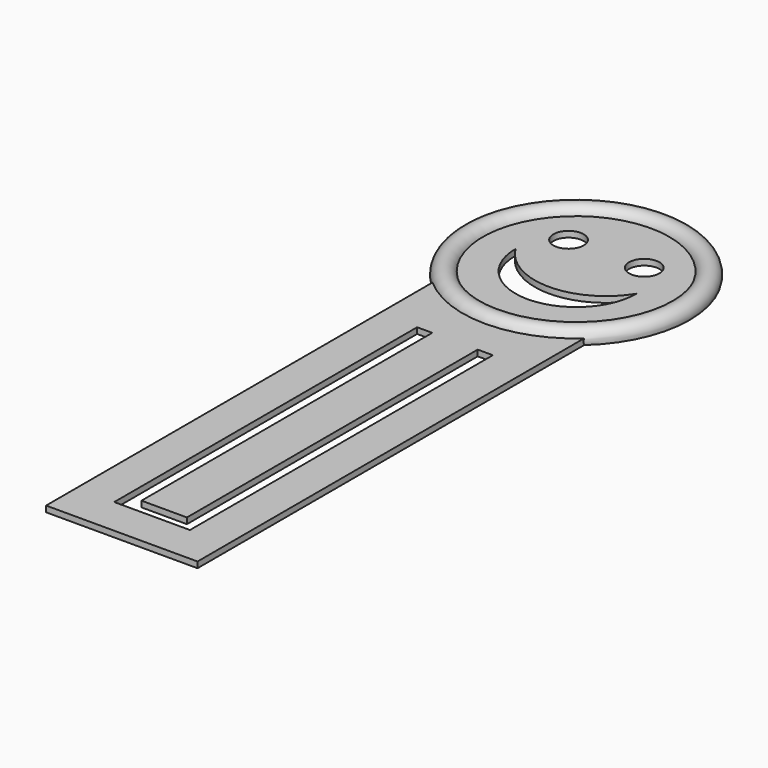
from build123d import *

# Parameters (mm, degrees)
F0_W      = 25.4
F0_H      = 76.2
F1_DEPTH  = 1
F3_DEPTH  = 1
F8_R      = 2.54
F9_DEPTH  = 1.0010001
F11_DEPTH = 1.0010001


with BuildPart() as f1:
    # F0 (on Top) → F1 (new body)
    with BuildSketch(Plane.XY):
        Rectangle(F0_W, F0_H)
        Polygon((-6.35, -31.75), (-6.35, 31.75), (-3.81, 31.75), (3.81, 31.75), (6.35, 31.75), (6.35, -31.75), align=None, mode=Mode.SUBTRACT)
        Polygon((3.81, 31.75), (-3.81, 31.75), (-3.81, 29.21), (-3.81, -29.21), (3.81, -29.21), (3.81, 29.21), align=None)
    extrude(amount=F1_DEPTH)

    # F2 (on Top) → F3 (join)
    with BuildSketch(Plane.XY):
        with BuildLine():
            ThreePointArc((12.7, 42.9509683429), (17.3901912008, 49.3728700667), (19.05, 57.15))
            ThreePointArc((19.05, 57.15), (0, 76.2), (-19.05, 57.15))
            ThreePointArc((-19.05, 57.15), (-17.3901912008, 49.3728700667), (-12.7, 42.9509683429))
            ThreePointArc((-12.7, 42.9509683429), (0, 38.1), (12.7, 42.9509683429))
        make_face()
        with BuildLine():
            Line((12.7, 33.2490316571), (12.7, 42.9509683429))
            ThreePointArc((12.7, 42.9509683429), (0, 38.1), (-12.7, 42.9509683429))
            Line((-12.7, 42.9509683429), (-12.7, 33.2490316571))
            Line((-12.7, 33.2490316571), (12.7, 33.2490316571))
        make_face()
    extrude(amount=F3_DEPTH)

    # F7: sweep along a path in F6
    with BuildLine(Plane.XY.offset(1)) as f7_path:
        CenterArc((0, 57.15), 19.05, 0, 360)
    # F5 (on offset) → F7 (sweep)
    with BuildSketch(Plane.XZ.offset(-57.15)):
        with BuildLine():
            Line((-19.05, 0), (-15.6564548698, 0))
            ThreePointArc((-15.6564548698, 0), (-17.3532274349, 2.3092691054), (-19.05, 0))
        make_face()
    sweep(path=f7_path.line)

    # F8 (on face) → F9 (cut, through all)
    with BuildSketch(Plane.XY.offset(1)):
        with Locations((-6.35, 63.5)):
            Circle(F8_R)
        with Locations((6.35, 63.5)):
            Circle(F8_R)
    extrude(amount=-F9_DEPTH, mode=Mode.SUBTRACT)

    # F10 (on face) → F11 (cut, through all)
    with BuildSketch(Plane.XY.offset(1)):
        with BuildLine():
            ThreePointArc((10.16, 57.15), (0, 51.4801930411), (-10.16, 57.15))
            ThreePointArc((-10.16, 57.15), (0, 46.99), (10.16, 57.15))
        make_face()
    extrude(amount=-F11_DEPTH, mode=Mode.SUBTRACT)


solid = f1.part
